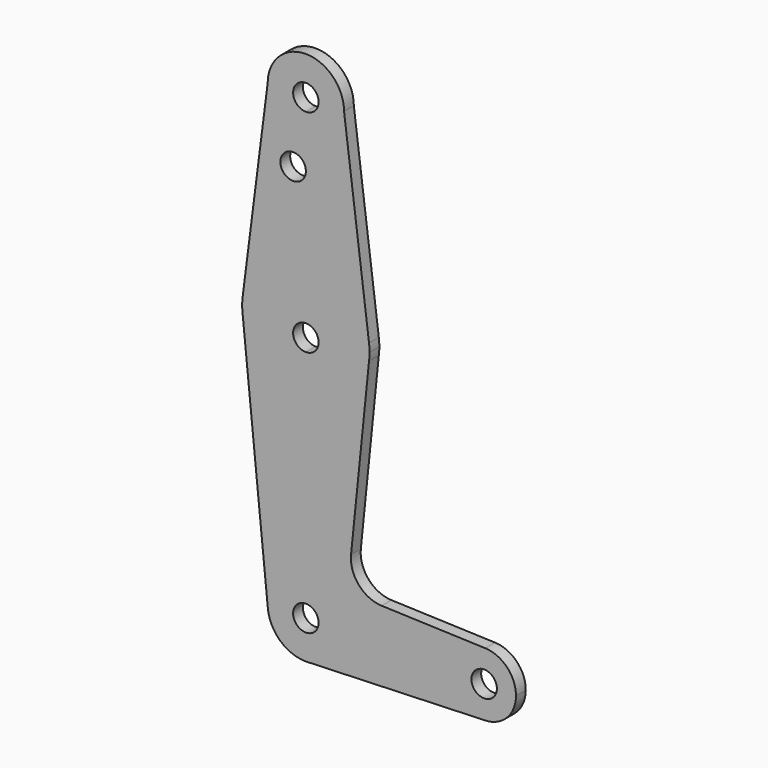
from build123d import *

# Parameters (mm, degrees)
F0_R     = 3.175
F1_DEPTH = 3.048


with BuildPart() as f1:
    # F0 (on Front) → F1 (new body)
    with BuildSketch(Plane.XZ):
        with BuildLine():
            ThreePointArc((3.175, 0), (2.245064, -2.245064), (0, -3.175))
            Line((0, -3.175), (0, -13.921154))
            ThreePointArc((0, -13.921154), (10.511858, -9.942224), (15.754305, 0))
            ThreePointArc((15.754305, 0), (15.844797, 0.975061), (15.875, 1.953846))
            ThreePointArc((15.875, 1.953846), (15.843082, 2.960013), (15.747457, 3.962135))
            ThreePointArc((15.747457, 3.962135), (10.491283, 13.868064), (0, 17.828846))
            Line((0, 17.828846), (0, 3.175))
            ThreePointArc((0, 3.175), (2.245064, 2.245064), (3.175, 0))
        make_face()
        with BuildLine():
            Line((0, -13.921154), (0, -3.175))
            ThreePointArc((0, -3.175), (-3.175, 0), (0, 3.175))
            Line((0, 3.175), (0, 17.828846))
            ThreePointArc((0, 17.828846), (-10.491283, 13.868064), (-15.747457, 3.962135))
            ThreePointArc((-15.747457, 3.962135), (-15.874976, 1.981282), (-15.754305, 0))
            ThreePointArc((-15.754305, 0), (-10.511858, -9.942224), (0, -13.921154))
        make_face()
        with BuildLine():
            ThreePointArc((15.754305, 0), (10.511858, -9.942224), (0, -13.921154))
            Line((0, -13.921154), (0, -52.021154))
            ThreePointArc((0, -52.021154), (6.735192, -54.810962), (9.525, -61.546154))
            ThreePointArc((9.525, -61.546154), (6.97129, -68.036666), (0.67949, -71.046887))
            Line((0.67949, -71.046887), (44.45, -69.483654))
            ThreePointArc((44.45, -69.483654), (36.513756, -61.404929), (44.732405, -53.61368))
            Line((44.732405, -53.61368), (18.893832, -52.693797))
            ThreePointArc((18.893832, -52.693797), (13.182562, -49.971285), (11.267611, -43.941057))
            Line((11.267611, -43.941057), (15.754305, 0))
        make_face()
        with BuildLine():
            Line((0, -52.021154), (0, -13.921154))
            ThreePointArc((0, -13.921154), (-10.511858, -9.942224), (-15.754305, 0))
            Line((-15.754305, 0), (-9.47732, -62.498008))
            ThreePointArc((-9.47732, -62.498008), (-7.063711, -55.156349), (0, -52.021154))
        make_face()
        with Locations((-3.175, 36.5252)):
            Circle(F0_R)
        with BuildLine():
            ThreePointArc((-15.747457, 3.962135), (-10.491283, 13.868064), (0, 17.828846))
            Line((0, 17.828846), (0, 36.5252))
            Line((0, 36.5252), (0, 43.228846))
            ThreePointArc((0, 43.228846), (-6.735192, 46.018654), (-9.525, 52.753846))
            Line((-9.525, 52.753846), (-15.747457, 3.962135))
        make_face()
        with Locations((-3.175, 36.5252)):
            Circle(F0_R, mode=Mode.SUBTRACT)
        with BuildLine():
            Line((0, 36.5252), (0, 17.828846))
            ThreePointArc((0, 17.828846), (10.491283, 13.868064), (15.747457, 3.962135))
            Line((15.747457, 3.962135), (9.525, 52.753846))
            ThreePointArc((9.525, 52.753846), (6.735192, 46.018654), (0, 43.228846))
            Line((0, 43.228846), (0, 36.5252))
        make_face()
        with BuildLine():
            ThreePointArc((3.175, -61.546154), (2.245064, -59.30109), (0, -58.371154))
            ThreePointArc((0, -58.371154), (-2.245064, -63.791218), (3.175, -61.546154))
        make_face()
        with BuildLine():
            ThreePointArc((9.525, -61.546154), (6.735192, -54.810962), (0, -52.021154))
            ThreePointArc((0, -52.021154), (-7.063711, -55.156349), (-9.47732, -62.498008))
            ThreePointArc((-9.47732, -62.498008), (-6.389805, -68.609866), (0, -71.071154))
            Line((0, -71.071154), (0.67949, -71.046887))
            ThreePointArc((0.67949, -71.046887), (6.97129, -68.036666), (9.525, -61.546154))
        make_face()
        with BuildLine():
            ThreePointArc((3.175, -61.546154), (-2.245064, -63.791218), (0, -58.371154))
            ThreePointArc((0, -58.371154), (2.245064, -59.30109), (3.175, -61.546154))
        make_face(mode=Mode.SUBTRACT)
        with BuildLine():
            ThreePointArc((3.175, 52.753846), (-2.245064, 54.99891), (0, 49.578846))
            ThreePointArc((0, 49.578846), (2.245064, 50.508782), (3.175, 52.753846))
        make_face()
        with BuildLine():
            ThreePointArc((-9.525, 52.753846), (-6.735192, 46.018654), (0, 43.228846))
            ThreePointArc((0, 43.228846), (6.735192, 46.018654), (9.525, 52.753846))
            ThreePointArc((9.525, 52.753846), (0, 62.278846), (-9.525, 52.753846))
        make_face()
        with BuildLine():
            ThreePointArc((3.175, 52.753846), (2.245064, 50.508782), (0, 49.578846))
            ThreePointArc((0, 49.578846), (-2.245064, 54.99891), (3.175, 52.753846))
        make_face(mode=Mode.SUBTRACT)
        with BuildLine():
            ThreePointArc((0, -71.071154), (0.339962, -71.065086), (0.67949, -71.046887))
            Line((0.67949, -71.046887), (0, -71.071154))
        make_face()
        with BuildLine():
            ThreePointArc((44.732405, -53.61368), (36.513756, -61.404929), (44.45, -69.483654))
            ThreePointArc((44.45, -69.483654), (50.06266, -67.158814), (52.3875, -61.546154))
            ThreePointArc((52.3875, -61.546154), (50.161633, -56.034244), (44.732405, -53.61368))
        make_face()
        with Locations((44.45, -61.546154)):
            Circle(F0_R, mode=Mode.SUBTRACT)
    extrude(amount=F1_DEPTH)


solid = f1.part
